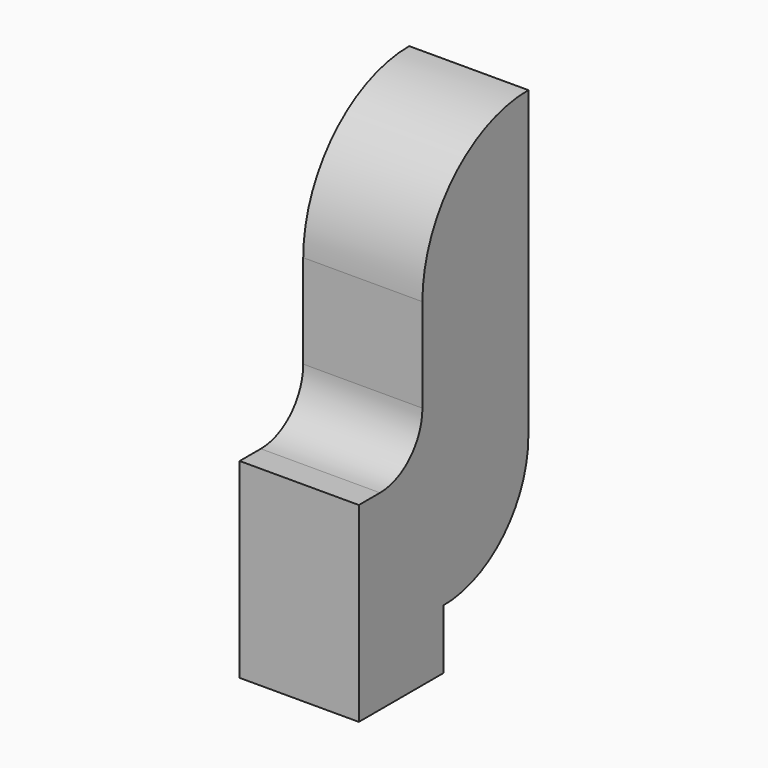
from build123d import *

# Parameters (mm, degrees)
F1_DEPTH = 2.286
F2_R     = 1.016


with BuildPart() as f1:
    # F0 (on Right) → F1 (new body)
    with BuildSketch(Plane.YZ):
        with BuildLine():
            Line((31.481896, 31.683242), (31.481896, 37.525242))
            ThreePointArc((31.481896, 37.525242), (29.685845, 36.781293), (28.941896, 34.985242))
            Line((28.941896, 34.985242), (28.941896, 32.171046))
            Line((28.941896, 32.171046), (27.417896, 32.171046))
            Line((27.417896, 32.171046), (27.417896, 29.905242))
            Line((27.417896, 29.905242), (27.417896, 28.508242))
            Line((27.417896, 28.508242), (29.449896, 28.508242))
            Line((29.449896, 28.508242), (29.449896, 29.651242))
            ThreePointArc((29.449896, 29.651242), (30.886737, 30.246401), (31.481896, 31.683242))
        make_face()
    extrude(amount=F1_DEPTH)

    # F2
    f2_edges = [f1.edges().sort_by_distance(p)[0] for p in [
        (1.143, 28.941896, 32.171046),
    ]]
    fillet(f2_edges, radius=F2_R)


solid = f1.part
